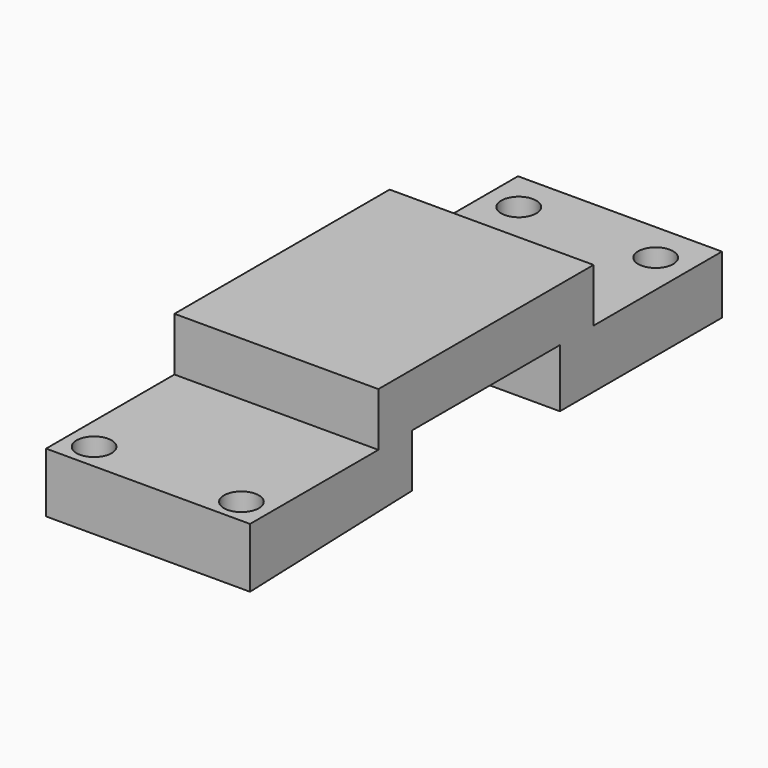
from build123d import *

# Parameters (mm, degrees)
F1_DEPTH = 17.5
F4_D     = 6


with BuildPart() as f1:
    # F0 (on Right) → F1 (new body, symmetric)
    with BuildSketch(Plane.YZ):
        Polygon((-52.869201, -1.142304), (-18.107738, 0), (-18.107738, 9.107696), (13.594714, 9.107696), (13.594714, -0.892304), (48.356172, -0.892304), (48.356172, 9.107696), (20.825095, 9.107696), (20.825095, 18.284721), (-25.338123, 18.284721), (-25.338123, 9.107696), (-52.869201, 9.107696), align=None)
    extrude(amount=F1_DEPTH, both=True)

    # F4 (through all)
    with Locations(Plane.XY.offset(9.107696)):
        with Locations((12.579355, -48.56791), (-12.805614, -48.43206), (-11.841724, 41.44815), (11.677298, 41.42686)):
            Hole(F4_D / 2)


solid = f1.part
